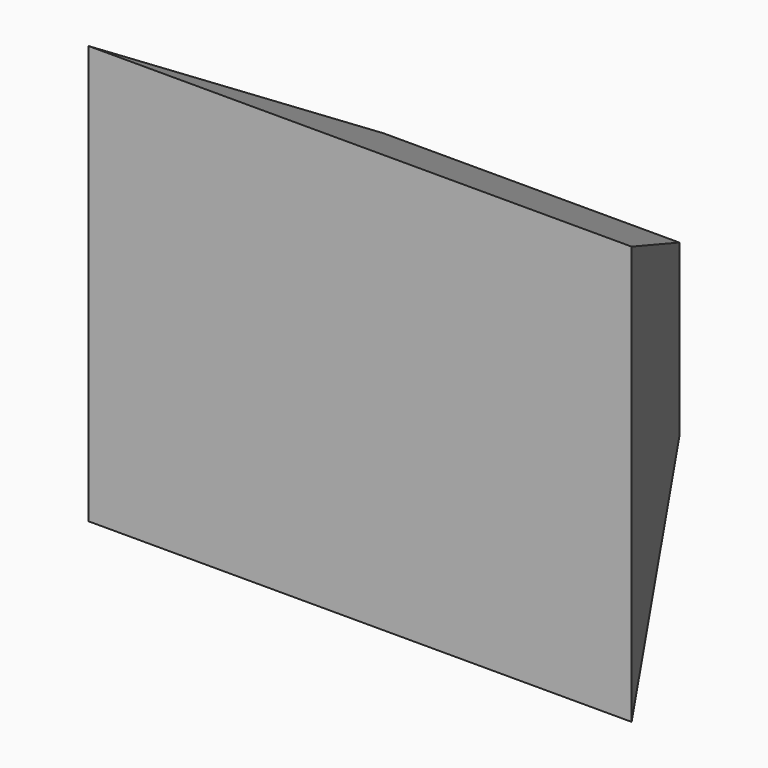
from build123d import *

# Parameters (mm, degrees)
F0_W     = 105.2293404937
F0_H     = 60.9295964241
F1_DEPTH = 76.2
F1_TAPER = -30


with BuildPart() as f1:
    # F0 (on Front) → F1 (new body)
    with BuildSketch(Plane.XZ):
        with Locations((52.6146702468, -30.4647982121)):
            Rectangle(F0_W, F0_H)
    extrude(amount=F1_DEPTH, taper=F1_TAPER)


solid = f1.part
